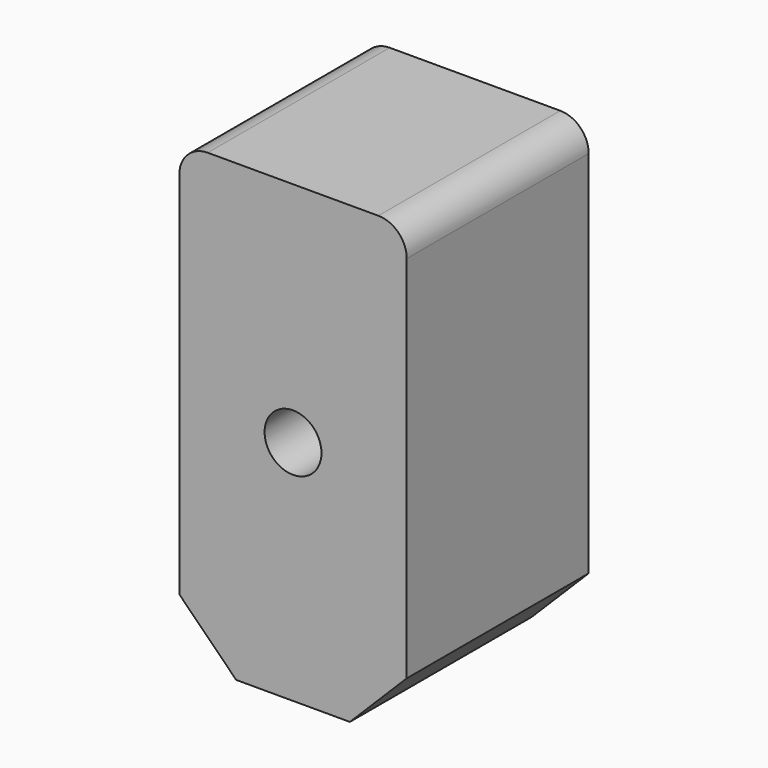
from build123d import *

# Parameters (mm, degrees)
F0_W     = 508
F0_H     = 1016
F1_DEPTH = 508
F2_R     = 63.5
F3_DEPTH = 508.001
F4_R     = 63.5
F5_SIZE  = 127


with BuildPart() as f1:
    # F0 (on Front) → F1 (new body)
    with BuildSketch(Plane.XZ):
        Rectangle(F0_W, F0_H)
    extrude(amount=F1_DEPTH)

    # F2 (on face) → F3 (cut, through all)
    with BuildSketch(Plane.XZ.offset(508)):
        Circle(F2_R)
    extrude(amount=-F3_DEPTH, mode=Mode.SUBTRACT)

    # F4
    f4_edges = [f1.edges().sort_by_distance(p)[0] for p in [
        (254, -254, 508),
        (-254, -254, 508),
    ]]
    fillet(f4_edges, radius=F4_R)

    # F5
    f5_edges = [f1.edges().sort_by_distance(p)[0] for p in [
        (254, -254, -508),
        (-254, -254, -508),
    ]]
    chamfer(f5_edges, length=F5_SIZE)


solid = f1.part
